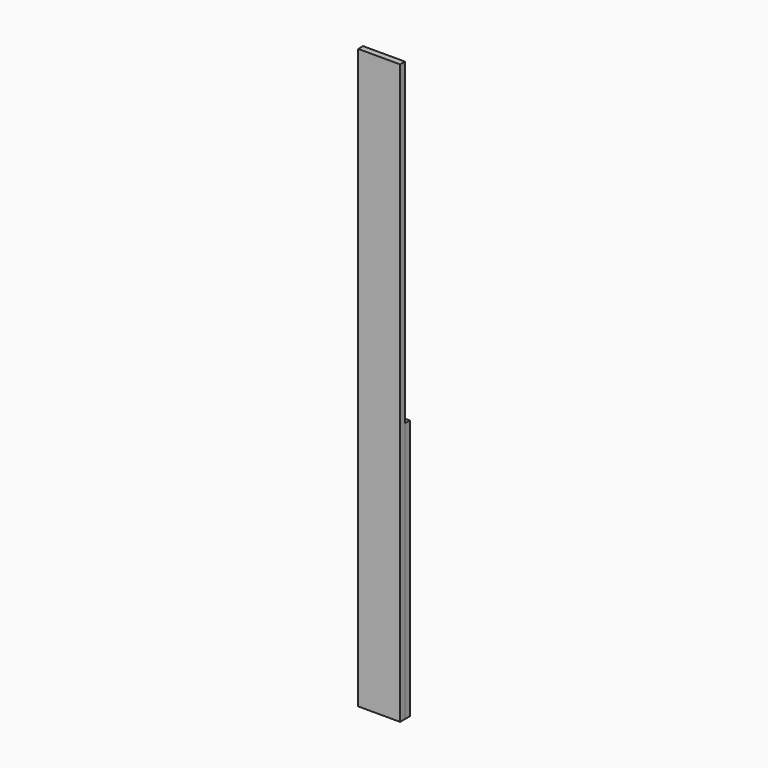
from build123d import *

# Parameters (mm, degrees)
F0_W     = 120
F0_H     = 21
F2_DEPTH = 1900
F3_W     = 145
F3_H     = 21
F4_DEPTH = 900
F5_W     = 145
F5_H     = 21
F6_DEPTH = 2000


with BuildPart() as f2:
    # F0 (on Top) → F2 (new body)
    with BuildSketch(Plane.XY):
        with Locations((60, -10.5)):
            Rectangle(F0_W, F0_H)
    extrude(amount=F2_DEPTH)


with BuildPart() as f4:
    # F3 (on Top) → F4 (new body)
    with BuildSketch(Plane.XY):
        with Locations((72.5, 10.5)):
            Rectangle(F3_W, F3_H)
    extrude(amount=F4_DEPTH)


with BuildPart() as f6:
    # F5 (on Top) → F6 (new body)
    with BuildSketch(Plane.XY):
        with Locations((72.5, -10.5)):
            Rectangle(F5_W, F5_H)
    extrude(amount=F6_DEPTH)


solid = Compound([f2.part, f4.part, f6.part])
